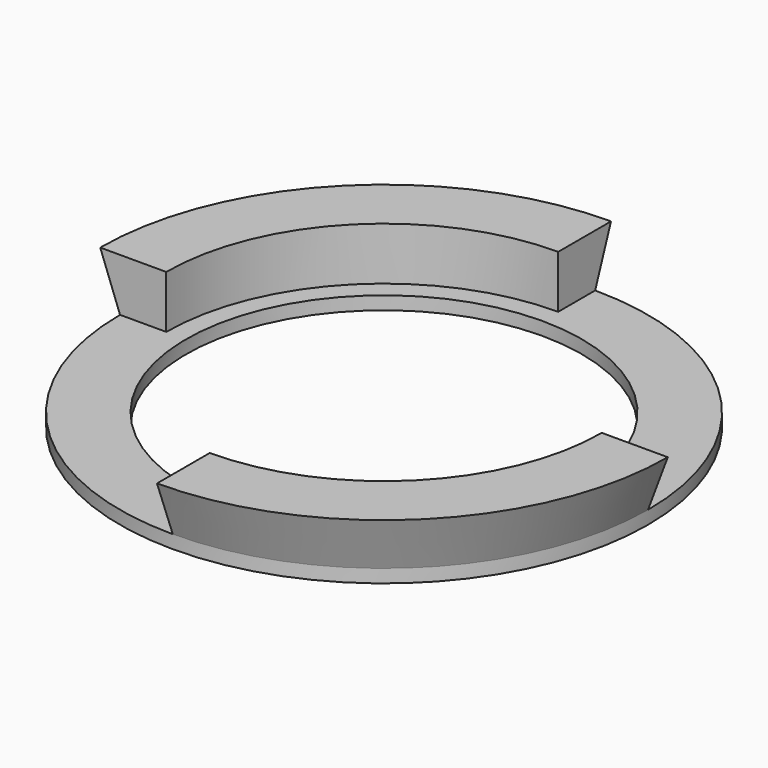
from build123d import *

# Parameters (mm, degrees)
F3_DEPTH = 4


with BuildPart() as f1:
    # F0 (on Right) → F1 (revolve)
    with BuildSketch(Plane.YZ):
        Polygon((15, 1), (15, 0), (20, 0), (20, 1), (21.5, 5), (16.5, 5), (16.5, 1), align=None)
    revolve(axis=Axis((0, 0, -1.199019), (0, 0, 1)))

    # F2 (on face) → F3 (cut)
    with BuildSketch(Plane.XY.offset(5)):
        with BuildLine():
            Line((0, -21.5), (0, -16.5))
            ThreePointArc((0, -16.5), (-11.667262, -11.667262), (-16.5, 0))
            Line((-16.5, 0), (-21.5, 0))
            ThreePointArc((-21.5, 0), (-15.202796, -15.202796), (0, -21.5))
        make_face()
        with BuildLine():
            Line((0, 21.5), (0, 16.5))
            ThreePointArc((0, 16.5), (11.667262, 11.667262), (16.5, 0))
            Line((16.5, 0), (21.5, 0))
            ThreePointArc((21.5, 0), (15.202796, 15.202796), (0, 21.5))
        make_face()
    extrude(amount=-F3_DEPTH, mode=Mode.SUBTRACT)


solid = f1.part
